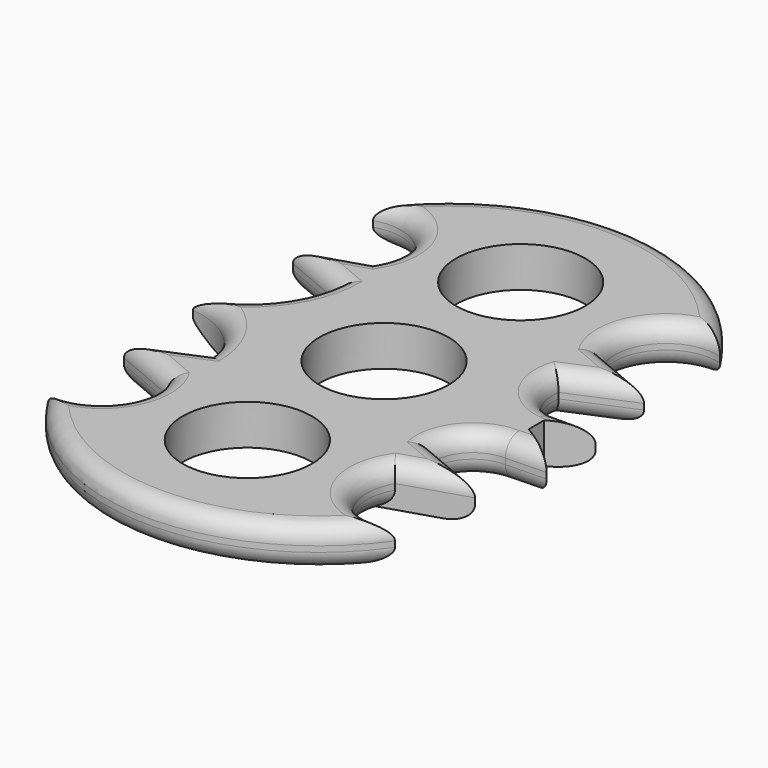
from build123d import *

# Parameters (mm, degrees)
F0_R     = 11.2
F1_DEPTH = 7
F2_R     = 3


with BuildPart() as f1:
    # F0 (on Top) → F1 (new body)
    with BuildSketch(Plane.XY):
        with BuildLine():
            ThreePointArc((20.5865148455, 21.4625373483), (21.7434732116, 31.1725600611), (31.0987774283, 34.0188518167))
            ThreePointArc((31.0987774283, 34.0188518167), (0.7620314335, 51.42409324), (-30.5147636682, 35.7708930969))
            ThreePointArc((-30.5147636682, 35.7708930969), (-20.7523442907, 32.8057608939), (-20.0025010854, 22.6305667311))
            Line((-20.0025010854, 22.6305667311), (-31.0987774283, 19.1264785826))
            Line((-31.0987774283, 19.1264785826), (-20.0025010854, 14.4543619826))
            ThreePointArc((-20.0025010854, 14.4543619826), (-24.1743980256, 5.046939402), (-33.1428274512, 0))
            ThreePointArc((-33.1428274512, 0), (-24.7316541302, -3.8490372307), (-20.5865148455, -12.1183022857))
            Line((-20.5865148455, -12.1183022857), (-31.682793051, -16.7904216796))
            Line((-31.682793051, -16.7904216796), (-20.5865148455, -21.4625373483))
            ThreePointArc((-20.5865148455, -21.4625373483), (-21.7434732116, -31.1725600611), (-31.0987774283, -34.0188518167))
            ThreePointArc((-31.0987774283, -34.0188518167), (-0.7620314335, -51.42409324), (30.5147636682, -35.7708930969))
            ThreePointArc((30.5147636682, -35.7708930969), (20.7523442907, -32.8057608939), (20.0025010854, -22.6305667311))
            Line((20.0025010854, -22.6305667311), (31.0987774283, -19.1264785826))
            Line((31.0987774283, -19.1264785826), (20.0025010854, -14.4543619826))
            ThreePointArc((20.0025010854, -14.4543619826), (22.0112859304, -9.4549721264), (27.0106755197, -7.446186617))
            Line((27.0106755197, -7.446186617), (34.0188518167, -7.2579156838))
            Line((34.0188518167, -7.2579156838), (27.7958236403, -3.3580851741))
            Line((27.7958236403, -3.3580851741), (27.7958236403, 0))
            Line((27.7958236403, 0), (34.0188518167, 3.3580842428))
            Line((34.0188518167, 3.3580842428), (27.0106755197, 3.3580842428))
            ThreePointArc((27.0106755197, 3.3580842428), (21.9991076468, 6.4185689119), (20.5865148455, 12.1183022857))
            Line((20.5865148455, 12.1183022857), (31.682793051, 16.7904216796))
            Line((31.682793051, 16.7904216796), (20.5865148455, 21.4625373483))
        make_face()
        with Locations((0, -29.6387411654)):
            Circle(F0_R, mode=Mode.SUBTRACT)
        Circle(F0_R, mode=Mode.SUBTRACT)
        with Locations((0, 29.6387411654)):
            Circle(F0_R, mode=Mode.SUBTRACT)
    extrude(amount=F1_DEPTH)

    # F2
    f2_edges = [f1.edges().sort_by_distance(p)[0] for p in [
        (0.762031, 51.424093, 7),
        (-0.762031, -51.424093, 7),
        (-21.743473, -31.17256, 7),
        (20.752344, -32.805761, 7),
        (21.999108, 6.418569, 7),
        (22.011286, -9.454972, 7),
        (30.514764, 3.358084, 7),
        (21.743473, 31.17256, 7),
        (30.514764, -7.352051, 7),
        (-24.731654, -3.849037, 7),
        (-24.174398, 5.046939, 7),
        (-25.550639, 16.79042, 7),
        (-20.752344, 32.805761, 7),
        (-25.550639, 20.878523, 7),
        (-26.134654, -14.454362, 7),
        (25.550639, -16.79042, 7),
        (-26.134654, -19.12648, 7),
        (25.550639, -20.878523, 7),
        (26.134654, 19.12648, 7),
        (26.134654, 14.454362, 7),
        (-0.762031, -51.424093, 0),
        (0.762031, 51.424093, 0),
        (30.514764, -7.352051, 0),
        (22.011286, -9.454972, 0),
        (21.999108, 6.418569, 0),
        (30.514764, 3.358084, 0),
        (25.550639, -16.79042, 0),
        (20.752344, -32.805761, 0),
        (-21.743473, -31.17256, 0),
        (-26.134654, -19.12648, 0),
        (-26.134654, -14.454362, 0),
        (-24.174398, 5.046939, 0),
        (-25.550639, 16.79042, 0),
        (-25.550639, 20.878523, 0),
        (-20.752344, 32.805761, 0),
        (21.743473, 31.17256, 0),
        (26.134654, 19.12648, 0),
        (26.134654, 14.454362, 0),
    ]]
    fillet(f2_edges, radius=F2_R)


solid = f1.part
